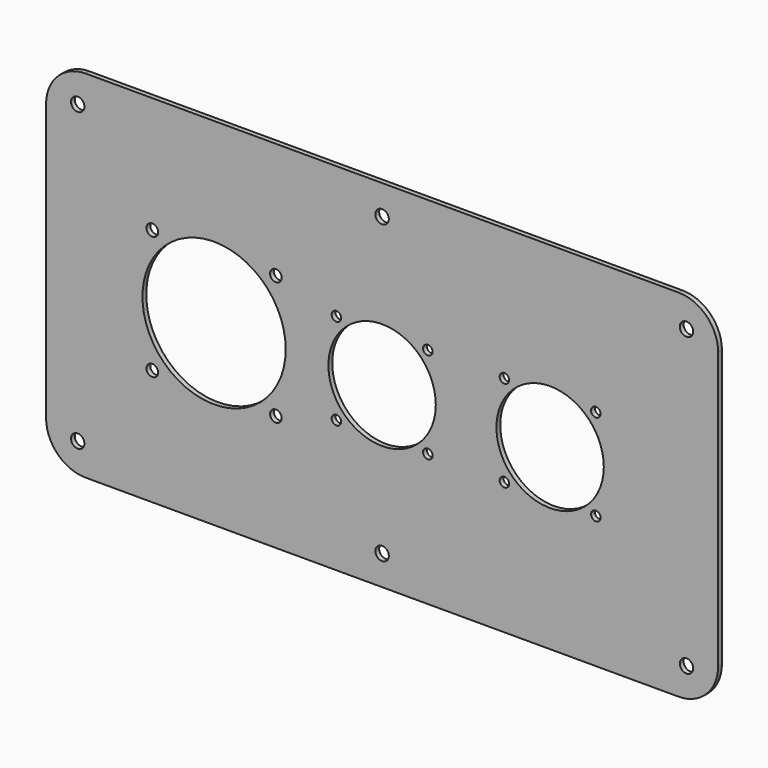
from build123d import *

# Parameters (mm, degrees)
F1_DEPTH = 1.524
F2_R     = 23.0124
F2_R_2   = 1.8669
F2_R_3   = 17.2466
F2_R_4   = 1.524
F3_DEPTH = 1.525
F5_D     = 4.318


with BuildPart() as f1:
    # F0 (on Front) → F1 (new body)
    with BuildSketch(Plane.XZ):
        with BuildLine():
            Line((203.2, 0), (12.7, 0))
            ThreePointArc((12.7, 0), (3.7197438789, -3.7197438789), (0, -12.7))
            Line((0, -12.7), (0, -101.6))
            ThreePointArc((0, -101.6), (3.7197438789, -110.5802561211), (12.7, -114.3))
            Line((12.7, -114.3), (203.2, -114.3))
            ThreePointArc((203.2, -114.3), (212.1802561211, -110.5802561211), (215.9, -101.6))
            Line((215.9, -101.6), (215.9, -12.7))
            ThreePointArc((215.9, -12.7), (212.1802561211, -3.7197438789), (203.2, 0))
        make_face()
    extrude(amount=F1_DEPTH)

    # F2 (on face) → F3 (cut, through all)
    with BuildSketch(Plane.XZ.offset(1.524)):
        with Locations((53.975, -57.15)):
            Circle(F2_R)
        with Locations((34.1249, -37.2999)):
            Circle(F2_R_2)
        with Locations((73.8251, -37.2999)):
            Circle(F2_R_2)
        with Locations((73.8251, -77.0001)):
            Circle(F2_R_2)
        with Locations((34.1249, -77.0001)):
            Circle(F2_R_2)
        with Locations((161.925, -57.15)):
            Circle(F2_R_3)
        with Locations((147.2438, -42.4688)):
            Circle(F2_R_4)
        with Locations((176.6062, -42.4688)):
            Circle(F2_R_4)
        with Locations((176.6062, -71.8312)):
            Circle(F2_R_4)
        with Locations((147.2438, -71.8312)):
            Circle(F2_R_4)
        with Locations((107.95, -57.15)):
            Circle(F2_R_3)
        with Locations((93.2688, -42.4688)):
            Circle(F2_R_4)
        with Locations((122.6312, -42.4688)):
            Circle(F2_R_4)
        with Locations((122.6312, -71.8312)):
            Circle(F2_R_4)
        with Locations((93.2688, -71.8312)):
            Circle(F2_R_4)
    extrude(amount=-F3_DEPTH, mode=Mode.SUBTRACT)

    # F5 (through all)
    with Locations(Plane.XZ.offset(1.524)):
        with Locations((10.16, -9.525), (107.95, -9.525), (205.74, -9.525), (205.74, -104.775), (107.95, -104.775), (10.16, -104.775)):
            Hole(F5_D / 2)


solid = f1.part
